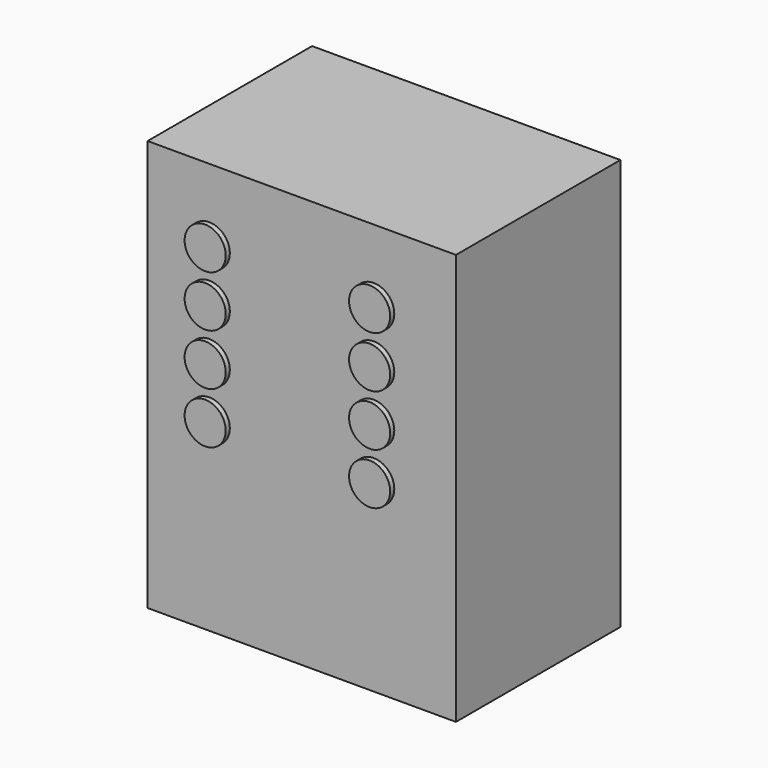
from build123d import *

# Parameters (mm, degrees)
F0_W     = 300
F0_H     = 400
F1_DEPTH = 200
F2_R     = 20
F3_DEPTH = 5


with BuildPart() as f1:
    # F0 (on Front) → F1 (new body)
    with BuildSketch(Plane.XZ):
        with Locations((150, 200)):
            Rectangle(F0_W, F0_H)
    extrude(amount=F1_DEPTH)


with BuildPart() as f3:
    # F2 (on face) → F3 (new body)
    with BuildSketch(Plane.XZ.offset(200)):
        with Locations((60, 280)):
            Circle(F2_R)
        with Locations((60, 330)):
            Circle(F2_R)
        with Locations((60, 230)):
            Circle(F2_R)
        with Locations((60, 180)):
            Circle(F2_R)
        with Locations((220, 330)):
            Circle(F2_R)
        with Locations((220, 280)):
            Circle(F2_R)
        with Locations((220, 230)):
            Circle(F2_R)
        with Locations((220, 180)):
            Circle(F2_R)
    extrude(amount=F3_DEPTH)


solid = Compound([f1.part, f3.part])
